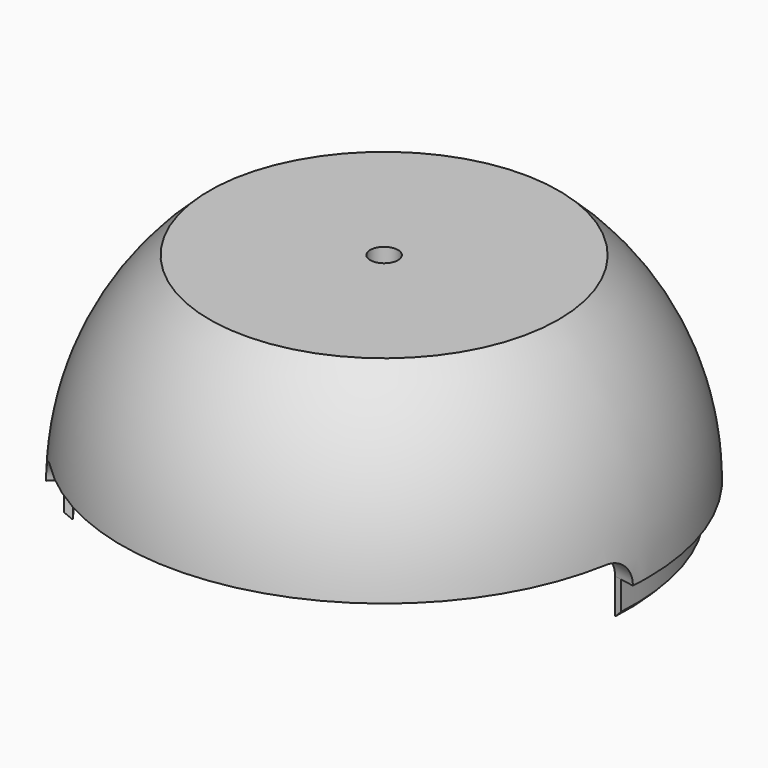
from build123d import *

# Parameters (mm, degrees)
BOX056_W                    = 48
BOX056_H                    = 16
BOX056_DEPTH                = 15
BOX056_ROLL_ANGLE           = -90
CYLINDER049_R               = 7.5
CYLINDER049_DEPTH           = 48
CYLINDER049_PITCH_ANGLE     = -90
BOX054_W                    = 55
BOX054_H                    = 4
BOX054_DEPTH                = 7
BOX054_PLACEMENT_ANGLE      = -10
CYLINDER047_R               = 4
CYLINDER047_DEPTH           = 52
CYLINDER047_PITCH_ANGLE     = -90
CYLINDER047_PLACEMENT_ANGLE = 170
BOX053_W                    = 120
BOX053_H                    = 64
BOX053_DEPTH                = 15
BOX053_PLACEMENT_ANGLE      = 45
BOX052_W                    = 120
BOX052_H                    = 61
BOX052_DEPTH                = 15
BOX052_PLACEMENT_ANGLE      = -10
CYLINDER048_R               = 52
CYLINDER048_DEPTH           = 11
CYLINDER046_R               = 4
CYLINDER046_DEPTH           = 52
CYLINDER046_PITCH_ANGLE     = -90
CYLINDER046_PLACEMENT_ANGLE = 45
BOX055_W                    = 55
BOX055_H                    = 4
BOX055_DEPTH                = 7
BOX055_ROLL_ANGLE           = 180
BOX055_PLACEMENT_ANGLE      = -135
CYLINDER044_R               = 35
CYLINDER044_DEPTH           = 10
CYLINDER045_R               = 36
CYLINDER045_DEPTH           = 10
CHAMFER_SIZE                = 0.9
CYLINDER033_R               = 2
CYLINDER033_DEPTH           = 40
BOX029_W                    = 59
BOX029_H                    = 59
BOX029_DEPTH                = 3
BOX035_W                    = 74
BOX035_H                    = 59
BOX035_DEPTH                = 24
CYLINDER023_R               = 9
CYLINDER023_DEPTH           = 10
CYLINDER023_PITCH_ANGLE     = 90
BOX026_W                    = 10
BOX026_H                    = 18
BOX026_DEPTH                = 6
CYLINDER022_R               = 9
CYLINDER022_DEPTH           = 10
CYLINDER022_PITCH_ANGLE     = 90
CYLINDER020_R               = 7.5
CYLINDER020_DEPTH           = 20
CYLINDER020_PITCH_ANGLE     = 90
BOX021_W                    = 98
BOX021_H                    = 98
BOX021_DEPTH                = 98
CYLINDER018_R               = 4
CYLINDER018_DEPTH           = 52
CYLINDER018_PITCH_ANGLE     = -90
CYLINDER018_PLACEMENT_ANGLE = 170
BOX023_W                    = 120
BOX023_H                    = 64
BOX023_DEPTH                = 15
BOX023_PLACEMENT_ANGLE      = 45
BOX022_W                    = 120
BOX022_H                    = 61
BOX022_DEPTH                = 15
BOX022_PLACEMENT_ANGLE      = -10
CYLINDER019_R               = 52
CYLINDER019_DEPTH           = 8
CYLINDER_R                  = 4
CYLINDER_DEPTH              = 52
CYLINDER_PITCH_ANGLE        = -90
CYLINDER_PLACEMENT_ANGLE    = 45
BOX024_W                    = 10
BOX024_H                    = 47
BOX024_DEPTH                = 24
CYLINDER043_R               = 7
CYLINDER043_DEPTH           = 53
CYLINDER043_PITCH_ANGLE     = -90
CYLINDER043_PLACEMENT_ANGLE = 45
BOX051_W                    = 2
BOX051_H                    = 20
BOX051_DEPTH                = 13
CYLINDER041_R               = 4
CYLINDER041_DEPTH           = 52
CYLINDER041_PITCH_ANGLE     = -90
CYLINDER041_PLACEMENT_ANGLE = 170
BOX049_W                    = 120
BOX049_H                    = 64
BOX049_DEPTH                = 15
BOX049_PLACEMENT_ANGLE      = 45
BOX048_W                    = 120
BOX048_H                    = 61
BOX048_DEPTH                = 15
BOX048_PLACEMENT_ANGLE      = -10
CYLINDER042_R               = 52
CYLINDER042_DEPTH           = 8
CYLINDER040_R               = 4
CYLINDER040_DEPTH           = 52
CYLINDER040_PITCH_ANGLE     = -90
CYLINDER040_PLACEMENT_ANGLE = 45
BOX046_W                    = 4.5
BOX046_H                    = 60
BOX046_DEPTH                = 21
BOX047_W                    = 4.5
BOX047_H                    = 24
BOX047_DEPTH                = 32
BOX050_W                    = 1
BOX050_H                    = 111
BOX050_DEPTH                = 94
BOX045_W                    = 4.5
BOX045_H                    = 24
BOX045_DEPTH                = 32


with BuildPart() as cubo043:
    # Box056 → Box056 (new body)
    with BuildSketch(Plane.XY):
        with Locations((24, 8)):
            Rectangle(BOX056_W, BOX056_H)
    extrude(amount=BOX056_DEPTH)


with BuildPart() as cubo043_1:
    # Box056 roll: moved
    add(cubo043.part.rotate(Axis((0, 0, 0), (1, 0, 0)), BOX056_ROLL_ANGLE))


with BuildPart() as cubo043_2:
    # Box056 placement: moved
    add(cubo043_1.part.moved(Location((-48, -7.5, 0))))


with BuildPart() as fusion034:
    # Cylinder049 → Cylinder049 (new body)
    with BuildSketch(Plane.XY):
        Circle(CYLINDER049_R)
    extrude(amount=CYLINDER049_DEPTH)


with BuildPart() as fusion034_1:
    # Cylinder049 pitch: moved
    add(fusion034.part.rotate(Axis((0, 0, 0), (0, 1, 0)), CYLINDER049_PITCH_ANGLE))


with BuildPart() as fusion034_2:
    # Cylinder049 placement: moved
    add(fusion034_1.part)

    # Fusion034: union Cubo043
    add(cubo043_2.part)


with BuildPart() as cubo041:
    # Box054 → Box054 (new body)
    with BuildSketch(Plane.XY):
        with Locations((27.5, 2)):
            Rectangle(BOX054_W, BOX054_H)
    extrude(amount=BOX054_DEPTH)


with BuildPart() as cubo041_1:
    # Box054 placement: moved
    add(cubo041.part.moved(Location((0, 0, -7))).rotate(Axis((0, 0, -7), (0, 0, 1)), BOX054_PLACEMENT_ANGLE))


with BuildPart() as cilindro037:
    # Cylinder047 → Cylinder047 (new body)
    with BuildSketch(Plane.XY):
        Circle(CYLINDER047_R)
    extrude(amount=CYLINDER047_DEPTH)


with BuildPart() as cilindro037_1:
    # Cylinder047 pitch: moved
    add(cilindro037.part.rotate(Axis((0, 0, 0), (0, 1, 0)), CYLINDER047_PITCH_ANGLE))


with BuildPart() as cilindro037_2:
    # Cylinder047 placement: moved
    add(cilindro037_1.part.rotate(Axis((0, 0, 0), (0, 0, 1)), CYLINDER047_PLACEMENT_ANGLE))


with BuildPart() as cubo040:
    # Box053 → Box053 (new body)
    with BuildSketch(Plane.XY):
        with Locations((60, 32)):
            Rectangle(BOX053_W, BOX053_H)
    extrude(amount=BOX053_DEPTH)


with BuildPart() as cubo040_1:
    # Box053 placement: moved
    add(cubo040.part.moved(Location((-42.426407, -42.426407, -9))).rotate(Axis((-42.426407, -42.426407, -9), (0, 0, 1)), BOX053_PLACEMENT_ANGLE))


with BuildPart() as cubo039:
    # Box052 → Box052 (new body)
    with BuildSketch(Plane.XY):
        with Locations((60, 30.5)):
            Rectangle(BOX052_W, BOX052_H)
    extrude(amount=BOX052_DEPTH)


with BuildPart() as cubo039_1:
    # Box052 placement: moved
    add(cubo039.part.moved(Location((-59.088465, 10.418891, -8))).rotate(Axis((-59.088465, 10.418891, -8), (0, 0, 1)), BOX052_PLACEMENT_ANGLE))


with BuildPart() as cut065:
    # Cylinder048 → Cylinder048 (new body)
    with BuildSketch(Plane.XY.offset(-7)):
        Circle(CYLINDER048_R)
    extrude(amount=CYLINDER048_DEPTH)

    # Cut066: cut Cubo039
    add(cubo039_1.part, mode=Mode.SUBTRACT)

    # Cut065: cut Cubo040
    add(cubo040_1.part, mode=Mode.SUBTRACT)


with BuildPart() as ranura008:
    # Cylinder046 → Cylinder046 (new body)
    with BuildSketch(Plane.XY):
        Circle(CYLINDER046_R)
    extrude(amount=CYLINDER046_DEPTH)


with BuildPart() as ranura008_1:
    # Cylinder046 pitch: moved
    add(ranura008.part.rotate(Axis((0, 0, 0), (0, 1, 0)), CYLINDER046_PITCH_ANGLE))


with BuildPart() as ranura008_2:
    # Cylinder046 placement: moved
    add(ranura008_1.part.rotate(Axis((0, 0, 0), (0, 0, 1)), CYLINDER046_PLACEMENT_ANGLE))

    # Fusion032: union Cilindro037, Cut065
    add(cilindro037_2.part)
    add(cut065.part)


with BuildPart() as fusion033:
    # Box055 → Box055 (new body)
    with BuildSketch(Plane.XY):
        with Locations((27.5, 2)):
            Rectangle(BOX055_W, BOX055_H)
    extrude(amount=BOX055_DEPTH)


with BuildPart() as fusion033_1:
    # Box055 roll: moved
    add(fusion033.part.rotate(Axis((0, 0, 0), (1, 0, 0)), BOX055_ROLL_ANGLE))


with BuildPart() as fusion033_2:
    # Box055 placement: moved
    add(fusion033_1.part.rotate(Axis((0, 0, 0), (0, 0, 1)), BOX055_PLACEMENT_ANGLE))

    # Fusion033: union Cubo041, Ranura008
    add(cubo041_1.part)
    add(ranura008_2.part)


with BuildPart() as cilindro034:
    # Cylinder044 → Cylinder044 (new body)
    with BuildSketch(Plane.XY):
        Circle(CYLINDER044_R)
    extrude(amount=CYLINDER044_DEPTH)


with BuildPart() as obj1:
    # Cylinder045 → Cylinder045 (new body)
    with BuildSketch(Plane.XY):
        Circle(CYLINDER045_R)
    extrude(amount=CYLINDER045_DEPTH)

    # Cut064: cut Cilindro034
    add(cilindro034.part, mode=Mode.SUBTRACT)


with BuildPart() as obj1_1:
    # Cut064 placement: moved
    add(obj1.part.moved(Location((0, 0, -5))))

    # Cut067: cut Fusion033
    add(fusion033_2.part, mode=Mode.SUBTRACT)

    # Cut068: cut Fusion034
    add(fusion034_2.part, mode=Mode.SUBTRACT)

    # Chamfer
    chamfer_edges = [obj1_1.edges().sort_by_distance(p)[0] for p in [
        (3.770742, 35.801976, -5),
        (35.982032, -1.137265, -5),
        (-32.540883, -15.397756, -5),
    ]]
    chamfer(chamfer_edges, length=CHAMFER_SIZE)


with BuildPart() as obj2:
    # Cylinder033 → Cylinder033 (new body)
    with BuildSketch(Plane.XY):
        Circle(CYLINDER033_R)
    extrude(amount=CYLINDER033_DEPTH)


with BuildPart() as obj3:
    # Sphere009 → Sphere009 (revolve)
    with BuildSketch(Plane.XZ):
        with BuildLine():
            ThreePointArc((0, -35), (35, 0), (0, 35))
            Line((0, 35), (0, -35))
        make_face()
    revolve(axis=Axis((0, 0, 0), (0, 0, 1)))


with BuildPart() as obj4:
    # Box029 → Box029 (new body)
    with BuildSketch(Plane(origin=(-30, -29, 25.5), x_dir=(1, 0, 0), z_dir=(0, 0, 1))):
        with Locations((29.5, 29.5)):
            Rectangle(BOX029_W, BOX029_H)
    extrude(amount=BOX029_DEPTH)

    # Common004: intersect obj3
    add(obj3.part, mode=Mode.INTERSECT)

    # Cut050: cut obj2
    add(obj2.part, mode=Mode.SUBTRACT)


with BuildPart() as cubo028:
    # Box035 → Box035 (new body)
    with BuildSketch(Plane(origin=(-39, -30, 28.5), x_dir=(1, 0, 0), z_dir=(0, 0, 1))):
        with Locations((37, 29.5)):
            Rectangle(BOX035_W, BOX035_H)
    extrude(amount=BOX035_DEPTH)


with BuildPart() as cilindro019:
    # Cylinder023 → Cylinder023 (new body)
    with BuildSketch(Plane.XY):
        Circle(CYLINDER023_R)
    extrude(amount=CYLINDER023_DEPTH)


with BuildPart() as cilindro019_1:
    # Cylinder023 pitch: moved
    add(cilindro019.part.rotate(Axis((0, 0, 0), (0, 1, 0)), CYLINDER023_PITCH_ANGLE))


with BuildPart() as cilindro019_2:
    # Cylinder023 placement: moved
    add(cilindro019_1.part.moved(Location((-33, 0, 3))))


with BuildPart() as cubo020:
    # Box026 → Box026 (new body)
    with BuildSketch(Plane(origin=(-33, -9, -3), x_dir=(1, 0, 0), z_dir=(0, 0, 1))):
        with Locations((5, 9)):
            Rectangle(BOX026_W, BOX026_H)
    extrude(amount=BOX026_DEPTH)


with BuildPart() as obj5:
    # Cylinder022 → Cylinder022 (new body)
    with BuildSketch(Plane.XY):
        Circle(CYLINDER022_R)
    extrude(amount=CYLINDER022_DEPTH)


with BuildPart() as obj5_1:
    # Cylinder022 pitch: moved
    add(obj5.part.rotate(Axis((0, 0, 0), (0, 1, 0)), CYLINDER022_PITCH_ANGLE))


with BuildPart() as obj5_2:
    # Cylinder022 placement: moved
    add(obj5_1.part.moved(Location((-33, 0, -3))))

    # Fusion015: union Cilindro019, Cubo020
    add(cilindro019_2.part)
    add(cubo020.part)


with BuildPart() as obj6:
    # Cylinder020 → Cylinder020 (new body)
    with BuildSketch(Plane.XY):
        Circle(CYLINDER020_R)
    extrude(amount=CYLINDER020_DEPTH)


with BuildPart() as obj6_1:
    # Cylinder020 pitch: moved
    add(obj6.part.rotate(Axis((0, 0, 0), (0, 1, 0)), CYLINDER020_PITCH_ANGLE))


with BuildPart() as obj6_2:
    # Cylinder020 placement: moved
    add(obj6_1.part.moved(Location((-46, 0, 0))))


with BuildPart() as obj7:
    # Box021 → Box021 (new body)
    with BuildSketch(Plane(origin=(-51, 49, 0), x_dir=(1, 0, 0), z_dir=(0, 0, -1))):
        with Locations((49, 49)):
            Rectangle(BOX021_W, BOX021_H)
    extrude(amount=BOX021_DEPTH)


with BuildPart() as cilindro017:
    # Cylinder018 → Cylinder018 (new body)
    with BuildSketch(Plane.XY):
        Circle(CYLINDER018_R)
    extrude(amount=CYLINDER018_DEPTH)


with BuildPart() as cilindro017_1:
    # Cylinder018 pitch: moved
    add(cilindro017.part.rotate(Axis((0, 0, 0), (0, 1, 0)), CYLINDER018_PITCH_ANGLE))


with BuildPart() as cilindro017_2:
    # Cylinder018 placement: moved
    add(cilindro017_1.part.rotate(Axis((0, 0, 0), (0, 0, 1)), CYLINDER018_PLACEMENT_ANGLE))


with BuildPart() as cubo018:
    # Box023 → Box023 (new body)
    with BuildSketch(Plane.XY):
        with Locations((60, 32)):
            Rectangle(BOX023_W, BOX023_H)
    extrude(amount=BOX023_DEPTH)


with BuildPart() as cubo018_1:
    # Box023 placement: moved
    add(cubo018.part.moved(Location((-42.426407, -42.426407, -9))).rotate(Axis((-42.426407, -42.426407, -9), (0, 0, 1)), BOX023_PLACEMENT_ANGLE))


with BuildPart() as cubo017:
    # Box022 → Box022 (new body)
    with BuildSketch(Plane.XY):
        with Locations((60, 30.5)):
            Rectangle(BOX022_W, BOX022_H)
    extrude(amount=BOX022_DEPTH)


with BuildPart() as cubo017_1:
    # Box022 placement: moved
    add(cubo017.part.moved(Location((-59.088465, 10.418891, -8))).rotate(Axis((-59.088465, 10.418891, -8), (0, 0, 1)), BOX022_PLACEMENT_ANGLE))


with BuildPart() as cut032:
    # Cylinder019 → Cylinder019 (new body)
    with BuildSketch(Plane.XY.offset(-4)):
        Circle(CYLINDER019_R)
    extrude(amount=CYLINDER019_DEPTH)

    # Cut034: cut Cubo017
    add(cubo017_1.part, mode=Mode.SUBTRACT)

    # Cut032: cut Cubo018
    add(cubo018_1.part, mode=Mode.SUBTRACT)


with BuildPart() as ranura004:
    # Cylinder → Cylinder (new body)
    with BuildSketch(Plane.XY):
        Circle(CYLINDER_R)
    extrude(amount=CYLINDER_DEPTH)


with BuildPart() as ranura004_1:
    # Cylinder pitch: moved
    add(ranura004.part.rotate(Axis((0, 0, 0), (0, 1, 0)), CYLINDER_PITCH_ANGLE))


with BuildPart() as ranura004_2:
    # Cylinder placement: moved
    add(ranura004_1.part.rotate(Axis((0, 0, 0), (0, 0, 1)), CYLINDER_PLACEMENT_ANGLE))

    # Fusion012: union Cilindro017, Cut032
    add(cilindro017_2.part)
    add(cut032.part)


with BuildPart() as obj8:
    # Sphere002 → Sphere002 (revolve)
    with BuildSketch(Plane.XZ):
        with BuildLine():
            ThreePointArc((0, -35), (35, 0), (0, 35))
            Line((0, 35), (0, -35))
        make_face()
    revolve(axis=Axis((0, 0, 0), (0, 0, 1)))


with BuildPart() as obj9:
    # Sphere003 → Sphere003 (revolve)
    with BuildSketch(Plane.XZ):
        with BuildLine():
            ThreePointArc((0, -38), (38, 0), (0, 38))
            Line((0, 38), (0, -38))
        make_face()
    revolve(axis=Axis((0, 0, 0), (0, 0, 1)))

    # Cut033: cut obj8
    add(obj8.part, mode=Mode.SUBTRACT)

    # Cut031: cut Ranura004
    add(ranura004_2.part, mode=Mode.SUBTRACT)

    # Cut036: cut obj7
    add(obj7.part, mode=Mode.SUBTRACT)


with BuildPart() as obj10:
    # Sphere004 → Sphere004 (revolve)
    with BuildSketch(Plane.XZ):
        with BuildLine():
            ThreePointArc((0, -35), (35, 0), (0, 35))
            Line((0, 35), (0, -35))
        make_face()
    revolve(axis=Axis((0, 0, 0), (0, 0, 1)))


with BuildPart() as obj11:
    # Box024 → Box024 (new body)
    with BuildSketch(Plane(origin=(-38, -22, 0), x_dir=(1, 0, 0), z_dir=(0, 0, 1))):
        with Locations((5, 23.5)):
            Rectangle(BOX024_W, BOX024_H)
    extrude(amount=BOX024_DEPTH)

    # Common: intersect obj10
    add(obj10.part, mode=Mode.INTERSECT)

    # Fusion013: union obj9
    add(obj9.part)

    # Cut037: cut obj6
    add(obj6_2.part, mode=Mode.SUBTRACT)

    # Cut039: cut obj5
    add(obj5_2.part, mode=Mode.SUBTRACT)

    # Cut049: cut Cubo028
    add(cubo028.part, mode=Mode.SUBTRACT)

    # Fusion023: union obj4
    add(obj4.part)


with BuildPart() as cilindro033:
    # Cylinder043 → Cylinder043 (new body)
    with BuildSketch(Plane.XY):
        Circle(CYLINDER043_R)
    extrude(amount=CYLINDER043_DEPTH)


with BuildPart() as cilindro033_1:
    # Cylinder043 pitch: moved
    add(cilindro033.part.rotate(Axis((0, 0, 0), (0, 1, 0)), CYLINDER043_PITCH_ANGLE))


with BuildPart() as cilindro033_2:
    # Cylinder043 placement: moved
    add(cilindro033_1.part.rotate(Axis((0, 0, 0), (0, 0, 1)), CYLINDER043_PLACEMENT_ANGLE))


with BuildPart() as cubo038:
    # Box051 → Box051 (new body)
    with BuildSketch(Plane(origin=(-26, -10, -1), x_dir=(1, 0, 0), z_dir=(0, 0, 1))):
        with Locations((1, 10)):
            Rectangle(BOX051_W, BOX051_H)
    extrude(amount=BOX051_DEPTH)


with BuildPart() as cilindro031:
    # Cylinder041 → Cylinder041 (new body)
    with BuildSketch(Plane.XY):
        Circle(CYLINDER041_R)
    extrude(amount=CYLINDER041_DEPTH)


with BuildPart() as cilindro031_1:
    # Cylinder041 pitch: moved
    add(cilindro031.part.rotate(Axis((0, 0, 0), (0, 1, 0)), CYLINDER041_PITCH_ANGLE))


with BuildPart() as cilindro031_2:
    # Cylinder041 placement: moved
    add(cilindro031_1.part.rotate(Axis((0, 0, 0), (0, 0, 1)), CYLINDER041_PLACEMENT_ANGLE))


with BuildPart() as cubo037:
    # Box049 → Box049 (new body)
    with BuildSketch(Plane.XY):
        with Locations((60, 32)):
            Rectangle(BOX049_W, BOX049_H)
    extrude(amount=BOX049_DEPTH)


with BuildPart() as cubo037_1:
    # Box049 placement: moved
    add(cubo037.part.moved(Location((-42.426407, -42.426407, -9))).rotate(Axis((-42.426407, -42.426407, -9), (0, 0, 1)), BOX049_PLACEMENT_ANGLE))


with BuildPart() as cubo036:
    # Box048 → Box048 (new body)
    with BuildSketch(Plane.XY):
        with Locations((60, 30.5)):
            Rectangle(BOX048_W, BOX048_H)
    extrude(amount=BOX048_DEPTH)


with BuildPart() as cubo036_1:
    # Box048 placement: moved
    add(cubo036.part.moved(Location((-59.088465, 10.418891, -8))).rotate(Axis((-59.088465, 10.418891, -8), (0, 0, 1)), BOX048_PLACEMENT_ANGLE))


with BuildPart() as cut059:
    # Cylinder042 → Cylinder042 (new body)
    with BuildSketch(Plane.XY.offset(-4)):
        Circle(CYLINDER042_R)
    extrude(amount=CYLINDER042_DEPTH)

    # Cut060: cut Cubo036
    add(cubo036_1.part, mode=Mode.SUBTRACT)

    # Cut059: cut Cubo037
    add(cubo037_1.part, mode=Mode.SUBTRACT)


with BuildPart() as ranura007:
    # Cylinder040 → Cylinder040 (new body)
    with BuildSketch(Plane.XY):
        Circle(CYLINDER040_R)
    extrude(amount=CYLINDER040_DEPTH)


with BuildPart() as ranura007_1:
    # Cylinder040 pitch: moved
    add(ranura007.part.rotate(Axis((0, 0, 0), (0, 1, 0)), CYLINDER040_PITCH_ANGLE))


with BuildPart() as ranura007_2:
    # Cylinder040 placement: moved
    add(ranura007_1.part.rotate(Axis((0, 0, 0), (0, 0, 1)), CYLINDER040_PLACEMENT_ANGLE))

    # Fusion029: union Cilindro031, Cut059
    add(cilindro031_2.part)
    add(cut059.part)


with BuildPart() as obj12:
    # Sphere014 → Sphere014 (revolve)
    with BuildSketch(Plane.XZ):
        with BuildLine():
            ThreePointArc((0, -35), (35, 0), (0, 35))
            Line((0, 35), (0, -35))
        make_face()
    revolve(axis=Axis((0, 0, 0), (0, 0, 1)))


with BuildPart() as obj13:
    # Box046 → Box046 (new body)
    with BuildSketch(Plane(origin=(-29, -28, 15.5), x_dir=(1, 0, 0), z_dir=(0, 0, 1))):
        with Locations((2.25, 30)):
            Rectangle(BOX046_W, BOX046_H)
    extrude(amount=BOX046_DEPTH)


with BuildPart() as obj14:
    # Box047 → Box047 (new body)
    with BuildSketch(Plane(origin=(-29, -37, 0), x_dir=(1, 0, 0), z_dir=(0, 0, 1))):
        with Locations((2.25, 12)):
            Rectangle(BOX047_W, BOX047_H)
    extrude(amount=BOX047_DEPTH)


with BuildPart() as obj15:
    # Box050 → Box050 (new body)
    with BuildSketch(Plane(origin=(-25.5, -61, 0), x_dir=(1, 0, 0), z_dir=(0, 0, 1))):
        with Locations((0.5, 55.5)):
            Rectangle(BOX050_W, BOX050_H)
    extrude(amount=BOX050_DEPTH)


with BuildPart() as obj16:
    # Box045 → Box045 (new body)
    with BuildSketch(Plane(origin=(-29, 13, 0), x_dir=(1, 0, 0), z_dir=(0, 0, 1))):
        with Locations((2.25, 12)):
            Rectangle(BOX045_W, BOX045_H)
    extrude(amount=BOX045_DEPTH)

    # Fusion030: union obj13, obj14, obj15
    add(obj13.part)
    add(obj14.part)
    add(obj15.part)

    # Common008: intersect obj12
    add(obj12.part, mode=Mode.INTERSECT)

    # Cut061: cut Ranura007
    add(ranura007_2.part, mode=Mode.SUBTRACT)

    # Cut062: cut Cubo038
    add(cubo038.part, mode=Mode.SUBTRACT)

    # Cut063: cut Cilindro033
    add(cilindro033_2.part, mode=Mode.SUBTRACT)

    # Fusion031: union obj11
    add(obj11.part)

    # Fusion035: union obj1
    add(obj1_1.part)


solid = obj16.part
